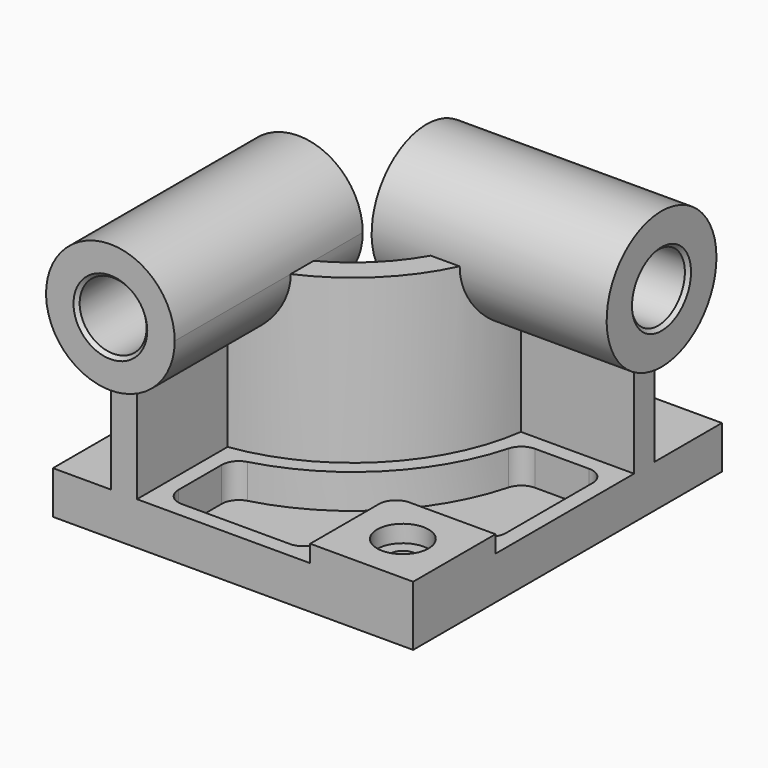
from build123d import *

# Parameters (mm, degrees)
F0_W            = 210
F0_H            = 225
F1_DEPTH        = 25
F3_DEPTH        = 95
F5_DEPTH        = 10
F5_DEPTH_BACK   = 127
F7_DEPTH        = 10
F7_DEPTH_BACK   = 127
F8_W            = 60
F8_H            = 60
F9_DEPTH        = 10
F10_R           = 10
F12_DEPTH       = 20
F14_D           = 15
F14_CBORE_D     = 30
F14_CBORE_DEPTH = 10
F15_R           = 10
F16_R           = 19.5
F17_DEPTH       = 235.001
F18_R           = 19.5
F19_DEPTH       = 137.0010001
F20_SIZE        = 2


with BuildPart() as f1:
    # F0 (on Top) → F1 (new body)
    with BuildSketch(Plane.XY):
        Rectangle(F0_W, F0_H)
    extrude(amount=F1_DEPTH)

    # F2 (on face) → F3 (join)
    with BuildSketch(Plane.XY.offset(25)):
        with BuildLine():
            Line((-71, -32.5), (-71, -112.5))
            Line((-71, -112.5), (-56, -112.5))
            Line((-56, -112.5), (-56, -46.4818166789))
            ThreePointArc((-56, -46.4818166789), (7.4888527117, -14.9888527117), (38.9818166789, 48.5))
            Line((38.9818166789, 48.5), (105, 48.5))
            Line((105, 48.5), (105, 63.5))
            Line((105, 63.5), (25, 63.5))
            ThreePointArc((25, 63.5), (-3.1177490061, -4.3822509939), (-71, -32.5))
        make_face()
    extrude(amount=F3_DEPTH)

    # F4 (on face) → F5 (join, two sides)
    with BuildSketch(Plane.XZ.offset(112.5)) as f5_sk:
        with BuildLine():
            ThreePointArc((-56, 83.2576538583), (-34.4526249034, 96.2829175487), (-26, 120))
            ThreePointArc((-26, 120), (-87.2170824513, 149.0473750966), (-71, 83.2576538583))
            Line((-71, 83.2576538583), (-71, 120))
            Line((-71, 120), (-56, 120))
            Line((-56, 120), (-56, 83.2576538583))
        make_face()
        with BuildLine():
            Line((-71, 120), (-71, 83.2576538583))
            ThreePointArc((-71, 83.2576538583), (-63.5, 82.5), (-56, 83.2576538583))
            Line((-56, 83.2576538583), (-56, 120))
            Line((-56, 120), (-71, 120))
        make_face()
    extrude(amount=F5_DEPTH)
    extrude(f5_sk.sketch, amount=-F5_DEPTH_BACK)

    # F6 (on face) → F7 (join, two sides)
    with BuildSketch(Plane.YZ.offset(105)) as f7_sk:
        with BuildLine():
            ThreePointArc((63.5, 80.7094158862), (86.8220700148, 94.504902432), (96, 120))
            ThreePointArc((96, 120), (30.504902432, 150.8220700148), (48.5, 80.7094158862))
            Line((48.5, 80.7094158862), (48.5, 120))
            Line((48.5, 120), (63.5, 120))
            Line((63.5, 120), (63.5, 80.7094158862))
        make_face()
        with BuildLine():
            Line((48.5, 120), (48.5, 80.7094158862))
            ThreePointArc((48.5, 80.7094158862), (56, 80), (63.5, 80.7094158862))
            Line((63.5, 80.7094158862), (63.5, 120))
            Line((63.5, 120), (48.5, 120))
        make_face()
    extrude(amount=F7_DEPTH)
    extrude(f7_sk.sketch, amount=-F7_DEPTH_BACK)

    # F8 (on face) → F9 (join)
    with BuildSketch(Plane.XY.offset(25)):
        with Locations((75, -82.5)):
            Rectangle(F8_W, F8_H)
    extrude(amount=F9_DEPTH)

    # F10
    f10_edges = [f1.edges().sort_by_distance(p)[0] for p in [
        (45, -52.5, 30),
    ]]
    fillet(f10_edges, radius=F10_R)

    # F11 (on face) → F12 (cut)
    with BuildSketch(Plane.XY.offset(25)):
        with BuildLine():
            ThreePointArc((46.5755076536, 39.5), (13.8528137424, -21.3528137424), (-47, -54.0755076536))
            Line((-47, -54.0755076536), (-47, -103.5))
            Line((-47, -103.5), (36, -103.5))
            Line((36, -103.5), (36, -62.5))
            ThreePointArc((36, -62.5), (41.5649711575, -49.0649711575), (55, -43.5))
            Line((55, -43.5), (96, -43.5))
            Line((96, -43.5), (96, 39.5))
            Line((96, 39.5), (46.5755076536, 39.5))
        make_face()
    extrude(amount=-F12_DEPTH, mode=Mode.SUBTRACT)

    # F14 (through all)
    with Locations(Plane.XY.offset(35)):
        with Locations((75, -82.5)):
            CounterBoreHole(F14_D / 2, F14_CBORE_D / 2, F14_CBORE_DEPTH)

    # F15
    f15_edges = [f1.edges().sort_by_distance(p)[0] for p in [
        (-47, -54.075508, 15),
        (-47, -103.5, 15),
        (36, -103.5, 15),
        (46.575508, 39.5, 15),
        (96, 39.5, 15),
        (96, -43.5, 15),
    ]]
    fillet(f15_edges, radius=F15_R)

    # F16 (on face) → F17 (cut, through all)
    with BuildSketch(Plane.XZ.offset(122.5)):
        with Locations((-63.5, 120)):
            Circle(F16_R)
    extrude(amount=-F17_DEPTH, mode=Mode.SUBTRACT)

    # F18 (on face) → F19 (cut, through all)
    with BuildSketch(Plane(origin=(-22, 0, 0), x_dir=(0, -1, 0), z_dir=(-1, 0, 0))):
        with Locations((-56, 120)):
            Circle(F18_R)
    extrude(amount=-F19_DEPTH, mode=Mode.SUBTRACT)

    # F20
    f20_edges = [f1.edges().sort_by_distance(p)[0] for p in [
        (-22, 75.5, 120),
        (-83, 14.5, 120),
        (-83, -122.5, 120),
        (115, 75.5, 120),
    ]]
    chamfer(f20_edges, length=F20_SIZE)


solid = f1.part
